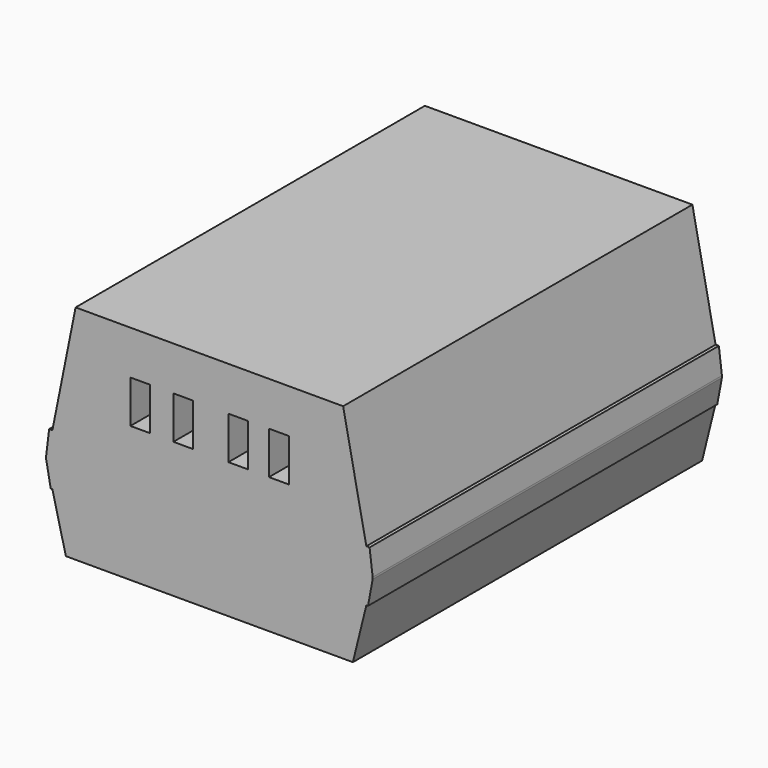
from build123d import *

# Parameters (mm, degrees)
F0_W     = 98.933
F0_H     = 132.2578
F1_DEPTH = 67.31
F3_DEPTH = 132.2578
F4_W     = 5.994986
F4_H     = 12.929627
F5_DEPTH = 12.7
F6_R     = 2.8575
F7_DEPTH = 9.144


with BuildPart() as f1:
    # F0 (on Top) → F1 (new body)
    with BuildSketch(Plane.XY):
        Rectangle(F0_W, F0_H)
    extrude(amount=F1_DEPTH)

    # F2 (on face) → F3 (cut, through all)
    with BuildSketch(Plane.XZ.offset(66.1289)):
        Polygon((-47.556915, 32.258), (-40.523797, 67.31), (-49.4665, 67.31), (-49.4665, 24.638), (-48.539754, 32.258), align=None)
        Polygon((-48.057587, 16.51), (-49.4665, 24.055742), (-49.4665, 0), (-43.474339, 0), (-47.556915, 16.51), align=None)
        Polygon((49.4665, 0), (49.4665, 24.055742), (48.057587, 16.51), (47.556915, 16.51), (43.474339, 0), align=None)
        Polygon((49.4665, 67.31), (40.523797, 67.31), (47.556915, 32.258), (48.539754, 32.258), (49.4665, 24.638), align=None)
    extrude(amount=-F3_DEPTH, mode=Mode.SUBTRACT)

    # F4 (on face) → F5 (cut)
    with BuildSketch(Plane.XZ.offset(66.1289)):
        with Locations((-20.924805, 47.556382)):
            Rectangle(F4_W, F4_H)
        with Locations((-7.897241, 47.556382)):
            Rectangle(F4_W, F4_H)
        with Locations((8.76972, 47.556382)):
            Rectangle(F4_W, F4_H)
        with Locations((21.055504, 47.556382)):
            Rectangle(F4_W, F4_H)
    extrude(amount=-F5_DEPTH, mode=Mode.SUBTRACT)

    # F6 (on face) → F7 (cut)
    with BuildSketch(Plane(origin=(0, 0, 0), x_dir=(1, 0, 0), z_dir=(0, 0, -1))):
        with Locations((-35.0012, -41.6814)):
            Circle(F6_R)
        with Locations((35.0012, -41.6814)):
            Circle(F6_R)
        with Locations((35.0012, 39.3192)):
            Circle(F6_R)
        with Locations((-35.0012, 39.3192)):
            Circle(F6_R)
    extrude(amount=-F7_DEPTH, mode=Mode.SUBTRACT)


solid = f1.part
